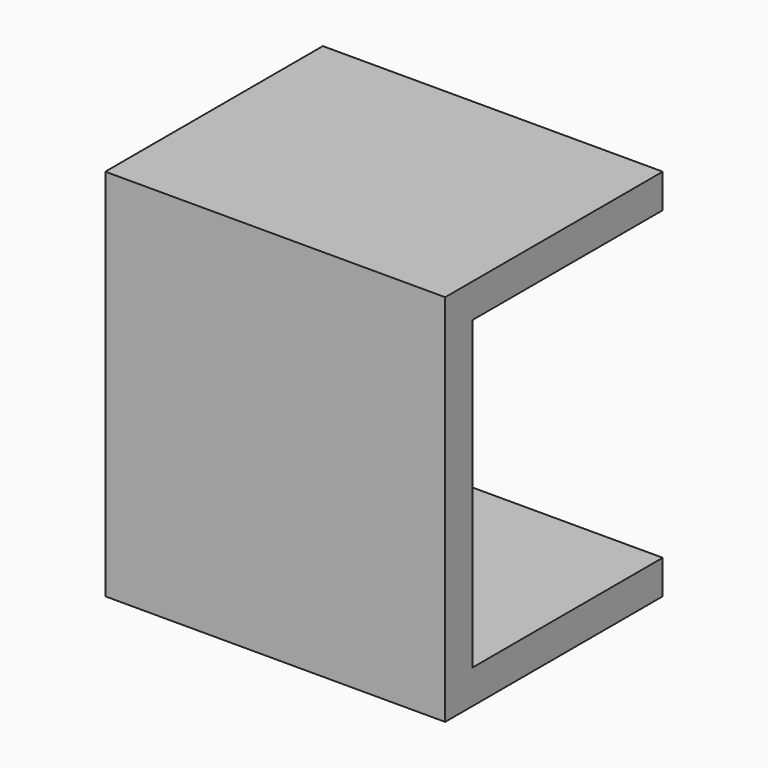
from build123d import *

# Parameters (mm, degrees)
BOX102_W     = 9
BOX102_H     = 8
BOX102_DEPTH = 1
BOX005_W     = 8
BOX005_H     = 1
BOX005_DEPTH = 11
BOX006_W     = 9
BOX006_H     = 1
BOX006_DEPTH = 11
BOX100_W     = 9
BOX100_H     = 7
BOX100_DEPTH = 1


with BuildPart() as box102:
    # Box102 → Box102 (new body)
    with BuildSketch(Plane(origin=(-9, 0, 0), x_dir=(1, 0, 0), z_dir=(0, 0, 1))):
        with Locations((4.5, 4)):
            Rectangle(BOX102_W, BOX102_H)
    extrude(amount=BOX102_DEPTH)


with BuildPart() as box005:
    # Box005 → Box005 (new body)
    with BuildSketch(Plane(origin=(-9, 0, 0), x_dir=(0, 1, 0), z_dir=(0, 0, 1))):
        with Locations((4, 0.5)):
            Rectangle(BOX005_W, BOX005_H)
    extrude(amount=BOX005_DEPTH)


with BuildPart() as box006:
    # Box006 → Box006 (new body)
    with BuildSketch(Plane(origin=(-9, 0, 0), x_dir=(1, 0, 0), z_dir=(0, 0, 1))):
        with Locations((4.5, 0.5)):
            Rectangle(BOX006_W, BOX006_H)
    extrude(amount=BOX006_DEPTH)


with BuildPart() as fusion043:
    # Box100 → Box100 (new body)
    with BuildSketch(Plane(origin=(-9, 1, 10), x_dir=(1, 0, 0), z_dir=(0, 0, 1))):
        with Locations((4.5, 3.5)):
            Rectangle(BOX100_W, BOX100_H)
    extrude(amount=BOX100_DEPTH)

    # Fusion041: union Box006
    add(box006.part)

    # Fusion042: union Box005
    add(box005.part)

    # Fusion043: union Box102
    add(box102.part)


solid = fusion043.part
